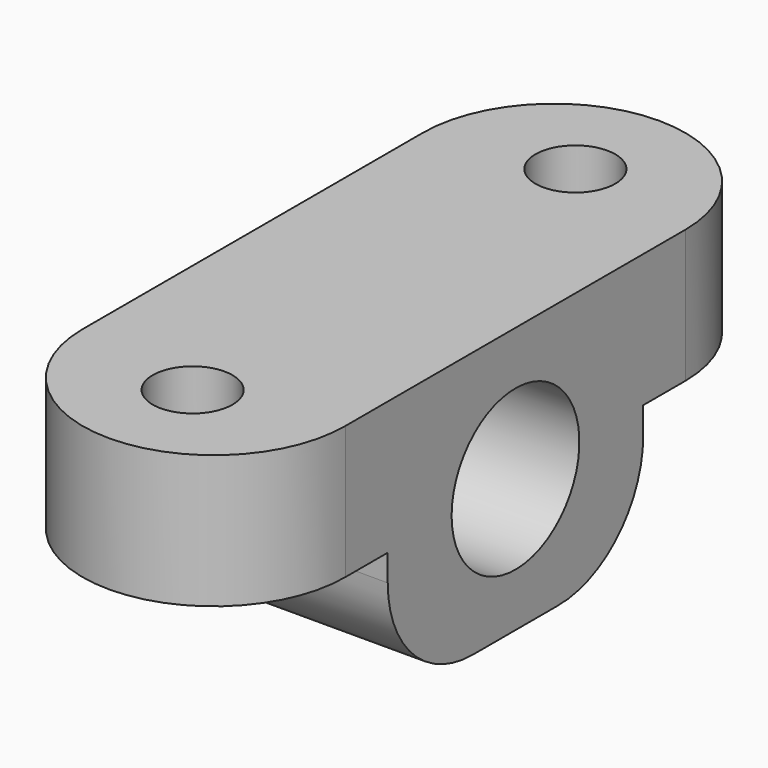
from build123d import *

# Parameters (mm, degrees)
PAD_DEPTH       = 5
SKETCH001_W     = 9.862508
SKETCH001_H     = 12
PAD001_DEPTH    = 10
SKETCH002_R     = 3
POCKET_DEPTH    = 9.863573
SKETCH003_R     = 1.5
POCKET001_DEPTH = 5
FILLET_R        = 4


with BuildPart() as part:
    # Sketch → Pad (new body)
    with BuildSketch(Plane.XY):
        with BuildLine():
            Line((138.65243, 91.791451), (138.65243, 75.79029))
            ThreePointArc((138.65243, 75.79029), (143.608931, 70.884283), (148.514938, 75.840785))
            Line((148.514938, 91.791451), (148.514938, 75.840785))
            ThreePointArc((148.514938, 91.791451), (143.583684, 96.722705), (138.65243, 91.791451))
        make_face()
    extrude(amount=PAD_DEPTH)

    # Sketch001 → Pad001 (join)
    with BuildSketch(Plane.XY.offset(5)):
        with Locations((143.583684, 83.816118)):
            Rectangle(SKETCH001_W, SKETCH001_H)
    extrude(amount=-PAD001_DEPTH)

    # Sketch002 (on Face9 of Pad001) → Pocket (cut, through all)
    with BuildSketch(Plane(origin=(138.65243, 0, 0), x_dir=(0, -1, 0), z_dir=(-1, 0, 0))):
        with Locations((-83.816118, 0)):
            Circle(SKETCH002_R)
    extrude(amount=-POCKET_DEPTH, mode=Mode.SUBTRACT)

    # Sketch003 (on Face10 of Pocket) → Pocket001 (cut)
    with BuildSketch(Plane(origin=(0, 0, 0), x_dir=(1, 0, 0), z_dir=(0, 0, -1))):
        with Locations((143.583684, -74.815537)):
            Circle(SKETCH003_R)
        with Locations((143.583684, -92.791451)):
            Circle(SKETCH003_R)
    extrude(amount=-POCKET001_DEPTH, mode=Mode.SUBTRACT)

    # Fillet
    fillet_edges = [part.edges().sort_by_distance(p)[0] for p in [
        (143.583684, 89.816118, -5),
        (143.583684, 77.816118, -5),
    ]]
    fillet(fillet_edges, radius=FILLET_R)


solid = part.part
